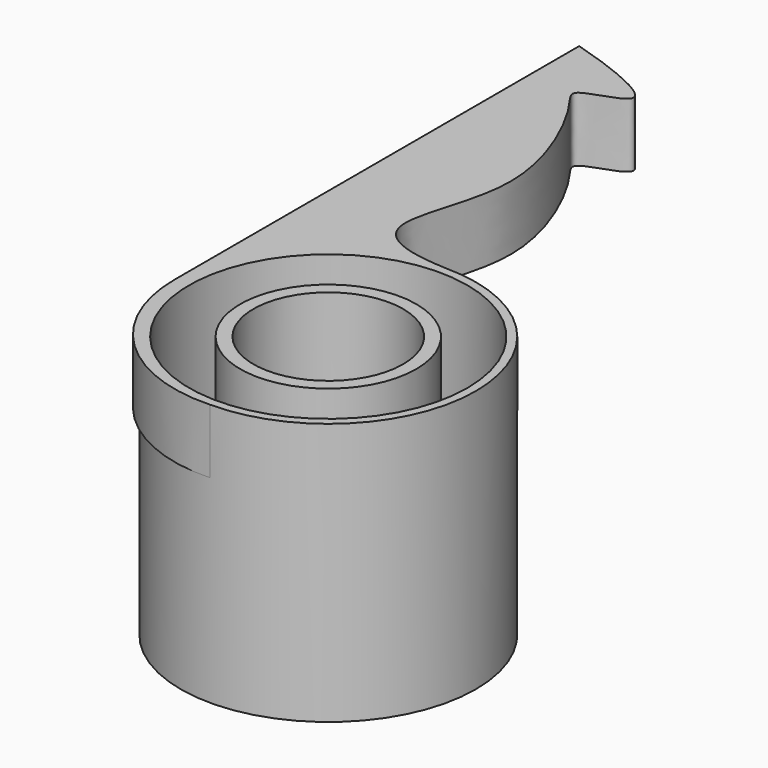
from build123d import *

# Parameters (mm, degrees)
F0_R     = 14
F0_R_2   = 7.1
F1_DEPTH = 1.9
F2_R     = 14
F2_R_2   = 13.2
F2_R_3   = 8.35
F2_R_4   = 7.1
F3_DEPTH = 23
F5_DEPTH = 6.1


with BuildPart() as f1:
    # F0 (on Top) → F1 (new body)
    with BuildSketch(Plane.XY):
        Circle(F0_R)
        Circle(F0_R_2, mode=Mode.SUBTRACT)
    extrude(amount=F1_DEPTH)

    # F2 (on face) → F3 (join)
    with BuildSketch(Plane.XY.offset(1.9)):
        Circle(F2_R)
        Circle(F2_R_2, mode=Mode.SUBTRACT)
        Circle(F2_R_3)
        Circle(F2_R_4, mode=Mode.SUBTRACT)
    extrude(amount=F3_DEPTH)

    # F4 (on face) → F5 (join)
    with BuildSketch(Plane.XY.offset(24.9)):
        with BuildLine():
            ThreePointArc((-14.6, 0), (-10.2858853715, 10.1138518874), (0, 14))
            add(Edge.make_bspline(
                [(-14.6, 48), (-11.9465744766, 47.2371827902), (-2.1875877282, 43.8729786552), (-11.192849257, 42.3948646994), (-8.7529861135, 39.9626184312), (-2.5308920645, 27.8641112256), (-9.1230436748, 16.4917264415), (-4.5, 14.1888943249), (0, 14)],
                knots=[0, 0, 0, 0, 0.1882647973, 0.3147578034, 0.3998121143, 0.6249323947, 0.8284684728, 1, 1, 1, 1], degree=3))
            Line((-14.6, 48), (-14.6, 0))
        make_face()
        with BuildLine():
            ThreePointArc((0, -14), (-14, 0), (0, 14))
            ThreePointArc((0, 14), (-10.2858853715, 10.1138518874), (-14.6, 0))
            ThreePointArc((-14.6, 0), (-10.2858853715, -10.1138518874), (0, -14))
        make_face()
    extrude(amount=-F5_DEPTH)


solid = f1.part
